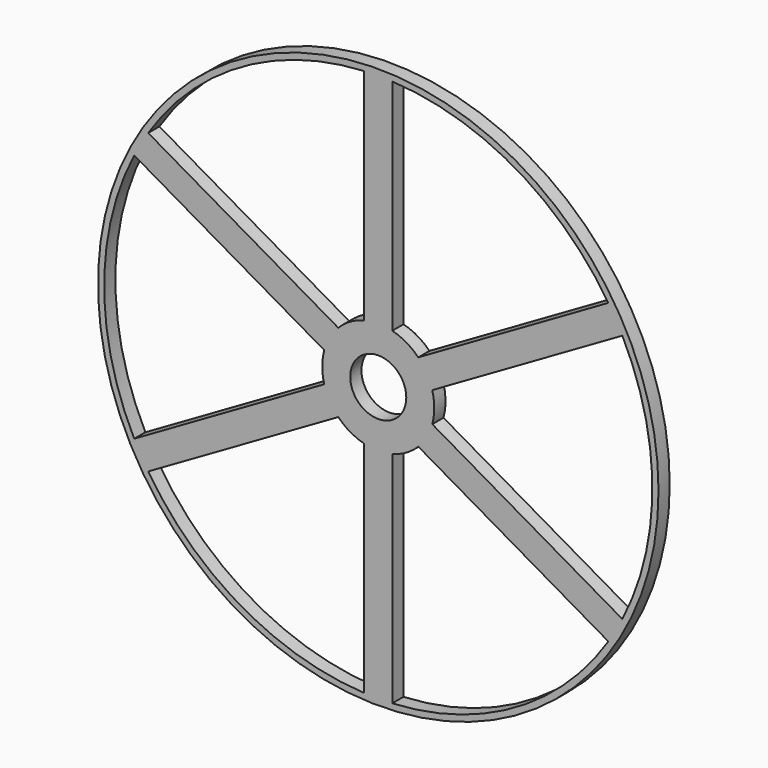
from build123d import *

# Parameters (mm, degrees)
F0_R     = 31.75
F1_DEPTH = 1.5875
F2_R     = 3.175
F3_DEPTH = 25.4


with BuildPart() as f1:
    # F0 (on Front) → F1 (new body)
    with BuildSketch(Plane.XZ):
        Circle(F0_R)
        with BuildLine():
            Line((-26.062471, -16.880262), (-4.530887, -4.448996))
            ThreePointArc((-4.530887, -4.448996), (-3.175, -5.499261), (-1.5875, -6.148361))
            Line((-1.5875, -6.148361), (-1.5875, -31.010893))
            ThreePointArc((-1.5875, -31.010893), (-15.52575, -26.891388), (-26.062471, -16.880262))
        make_face(mode=Mode.SUBTRACT)
        with BuildLine():
            ThreePointArc((1.5875, -6.148361), (3.175, -5.499261), (4.530887, -4.448996))
            Line((4.530887, -4.448996), (26.062471, -16.880262))
            ThreePointArc((26.062471, -16.880262), (15.52575, -26.891388), (1.5875, -31.010893))
            Line((1.5875, -31.010893), (1.5875, -6.148361))
        make_face(mode=Mode.SUBTRACT)
        with BuildLine():
            ThreePointArc((6.118387, -1.699365), (6.35, 0), (6.118387, 1.699365))
            Line((6.118387, 1.699365), (27.649971, 14.130631))
            ThreePointArc((27.649971, 14.130631), (31.0515, 0), (27.649971, -14.130631))
            Line((27.649971, -14.130631), (6.118387, -1.699365))
        make_face(mode=Mode.SUBTRACT)
        with BuildLine():
            ThreePointArc((-6.118387, 1.699365), (-6.35, 0), (-6.118387, -1.699365))
            Line((-6.118387, -1.699365), (-27.649971, -14.130631))
            ThreePointArc((-27.649971, -14.130631), (-31.0515, 0), (-27.649971, 14.130631))
            Line((-27.649971, 14.130631), (-6.118387, 1.699365))
        make_face(mode=Mode.SUBTRACT)
        with BuildLine():
            ThreePointArc((-26.062471, 16.880262), (-15.52575, 26.891388), (-1.5875, 31.010893))
            Line((-1.5875, 31.010893), (-1.5875, 6.148361))
            ThreePointArc((-1.5875, 6.148361), (-3.175, 5.499261), (-4.530887, 4.448996))
            Line((-4.530887, 4.448996), (-26.062471, 16.880262))
        make_face(mode=Mode.SUBTRACT)
        with BuildLine():
            ThreePointArc((4.530887, 4.448996), (3.175, 5.499261), (1.5875, 6.148361))
            Line((1.5875, 6.148361), (1.5875, 31.010893))
            ThreePointArc((1.5875, 31.010893), (15.52575, 26.891388), (26.062471, 16.880262))
            Line((26.062471, 16.880262), (4.530887, 4.448996))
        make_face(mode=Mode.SUBTRACT)
    extrude(amount=F1_DEPTH)

    # F2 (on face) → F3 (cut)
    with BuildSketch(Plane.XZ.offset(1.5875)):
        Circle(F2_R)
    extrude(amount=-F3_DEPTH, mode=Mode.SUBTRACT)


solid = f1.part
